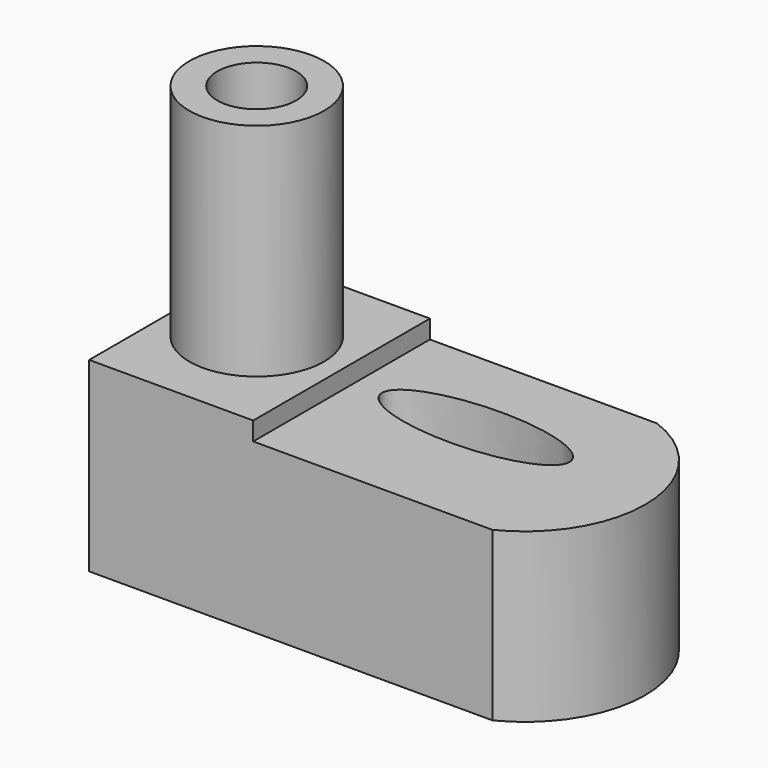
from build123d import *

# Parameters (mm, degrees)
F1_DEPTH = 25.4
F2_W     = 18.867608
F2_H     = 25.4
F2_R     = 7.749335
F3_DEPTH = 25.4
F5_DEPTH = 25.4
F7_DEPTH = 25.4
F8_R     = 4.539573
F9_DEPTH = 50.8


with BuildPart() as f1:
    # F0 (on Front) → F1 (new body)
    with BuildSketch(Plane.XZ):
        Polygon((0, 46.81436), (0, 0), (55.1842, 0), (55.1842, 19.293191), (18.867608, 19.293191), (18.867608, 46.81436), align=None)
    extrude(amount=F1_DEPTH)

    # F2 (on face) → F3 (cut)
    with BuildSketch(Plane.XY.offset(46.81436)):
        with Locations((9.433804, -12.7)):
            Rectangle(F2_W, F2_H)
        with Locations((8.937289, -12.483831)):
            Circle(F2_R, mode=Mode.SUBTRACT)
    extrude(amount=-F3_DEPTH, mode=Mode.SUBTRACT)

    # F4 (on face) → F5 (cut)
    with BuildSketch(Plane.XY.offset(19.293191)):
        with BuildLine():
            ThreePointArc((44.970158, 0), (54.020374, -12.23415), (46.388779, -25.4))
            Line((46.388779, -25.4), (55.1842, -25.4))
            Line((55.1842, -25.4), (55.1842, 0))
            Line((55.1842, 0), (44.970158, 0))
        make_face()
    extrude(amount=-F5_DEPTH, mode=Mode.SUBTRACT)

    # F6 (on face) → F7 (cut)
    with BuildSketch(Plane.XY.offset(19.293191)):
        with BuildLine():
            add(Edge.make_bspline(
                [(43.551542, -10.781489), (43.551542, -4.311831), (27.379308, -7.54666), (11.207074, -10.781489), (27.379308, -14.016319), (43.551542, -17.251148), (43.551542, -10.781489)],
                knots=[0, 0, 0, 2.094395, 2.094395, 4.18879, 4.18879, 6.283185, 6.283185, 6.283185], degree=2, weights=[1, 0.5, 1, 0.5, 1, 0.5, 1]))
        make_face()
    extrude(amount=-F7_DEPTH, mode=Mode.SUBTRACT)

    # F8 (on face) → F9 (cut)
    with BuildSketch(Plane.XY.offset(46.81436)):
        with Locations((8.937289, -12.483831)):
            Circle(F8_R)
    extrude(amount=-F9_DEPTH, mode=Mode.SUBTRACT)


solid = f1.part
